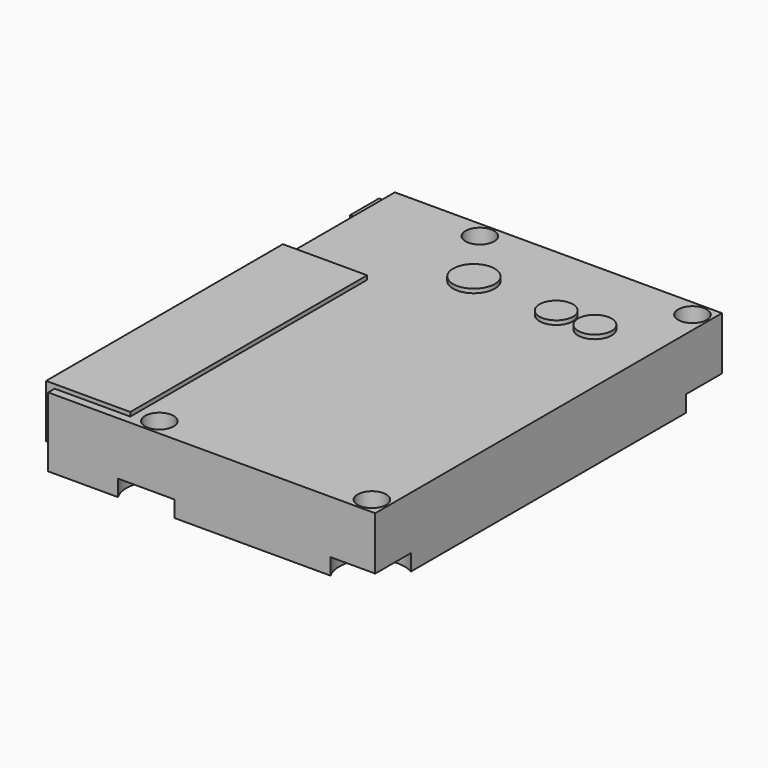
from build123d import *

# Parameters (mm, degrees)
F0_W      = 80
F0_H      = 106
F0_R      = 1.8
F1_DEPTH  = 1
F2_W      = 20.6
F2_H      = 72.4
F3_DEPTH  = 13
F4_W      = 10
F4_H      = 8.9
F5_DEPTH  = 10.9
F6_R      = 5.1
F6_R_2    = 4.1
F7_DEPTH  = 13
F9_DEPTH  = 4
F10_W     = 80
F10_H     = 106
F10_R     = 3.5
F11_DEPTH = 12


with BuildPart() as f1:
    # F0 (on Top) → F1 (new body)
    with BuildSketch(Plane.XY):
        Rectangle(F0_W, F0_H)
        with Locations((-16, -49)):
            Circle(F0_R, mode=Mode.SUBTRACT)
        with Locations((36, -49)):
            Circle(F0_R, mode=Mode.SUBTRACT)
        with Locations((-16, 49)):
            Circle(F0_R, mode=Mode.SUBTRACT)
        with Locations((36, 49)):
            Circle(F0_R, mode=Mode.SUBTRACT)
    extrude(amount=-F1_DEPTH)

    # F2 (on face) → F3 (join)
    with BuildSketch(Plane.XY):
        with Locations((-31.8, -14.81)):
            Rectangle(F2_W, F2_H)
    extrude(amount=F3_DEPTH)

    # F4 (on face) → F5 (join)
    with BuildSketch(Plane.XY):
        with Locations((-37.1, 46.35)):
            Rectangle(F4_W, F4_H)
    extrude(amount=F5_DEPTH)

    # F6 (on face) → F7 (join)
    with BuildSketch(Plane.XY):
        with Locations((-5.3, 33.8)):
            Circle(F6_R)
        with Locations((15.8, 32.6)):
            Circle(F6_R_2)
        with Locations((25.24, 32.6)):
            Circle(F6_R_2)
    extrude(amount=F7_DEPTH)

    # F8 (on face) → F9 (join)
    with BuildSketch(Plane(origin=(0, 0, -1), x_dir=(1, 0, 0), z_dir=(0, 0, -1))):
        with BuildLine():
            Line((-22.928203, 53), (-40, 53))
            Line((-40, 53), (-40, -53))
            Line((-40, -53), (-22.928203, -53))
            ThreePointArc((-22.928203, -53), (-16, -41), (-9.071797, -53))
            Line((-9.071797, -53), (29.071797, -53))
            ThreePointArc((29.071797, -53), (30.343146, -43.343146), (40, -42.071797))
            Line((40, -42.071797), (40, 42.071797))
            ThreePointArc((40, 42.071797), (30.343146, 43.343146), (29.071797, 53))
            Line((29.071797, 53), (-9.071797, 53))
            ThreePointArc((-9.071797, 53), (-16, 41), (-22.928203, 53))
        make_face()
    extrude(amount=F9_DEPTH)

    # F10 (on face) → F11 (join)
    with BuildSketch(Plane.XY):
        Rectangle(F10_W, F10_H)
        with Locations((-16, -49)):
            Circle(F10_R, mode=Mode.SUBTRACT)
        with Locations((36, -49)):
            Circle(F10_R, mode=Mode.SUBTRACT)
        with Locations((-16, 49)):
            Circle(F10_R, mode=Mode.SUBTRACT)
        with Locations((36, 49)):
            Circle(F10_R, mode=Mode.SUBTRACT)
    extrude(amount=F11_DEPTH)


solid = f1.part
